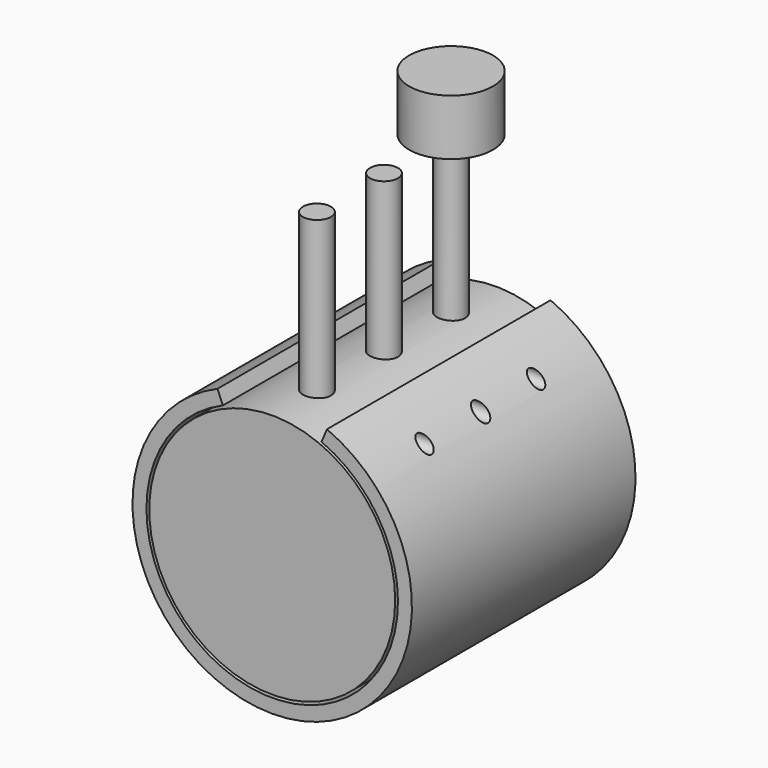
from build123d import *

# Parameters (mm, degrees)
F1_DEPTH = 63.5
F2_R     = 3.351543
F2_R_2   = 3.175
F3_DEPTH = 76.2
F4_R     = 55.88
F5_DEPTH = 63.5
F6_R     = 6.35
F7_DEPTH = 127
F8_R     = 19.05
F9_DEPTH = 25.4


with BuildPart() as f1:
    # F0 (on Front) → F1 (new body, symmetric)
    with BuildSketch(Plane.XZ):
        with BuildLine():
            Line((-22.398134, 52.578), (-24.886816, 58.42))
            ThreePointArc((-24.886816, 58.42), (0, -63.5), (24.886816, 58.42))
            Line((24.886816, 58.42), (22.398134, 52.578))
            ThreePointArc((22.398134, 52.578), (0, -57.15), (-22.398134, 52.578))
        make_face()
    extrude(amount=F1_DEPTH, both=True)

    # F2 (on Right) → F3 (cut, symmetric)
    with BuildSketch(Plane.YZ):
        with Locations((0, 45.72)):
            Circle(F2_R)
        with Locations((-31.75, 45.806605)):
            Circle(F2_R_2)
        with Locations((31.75, 45.927212)):
            Circle(F2_R_2)
    extrude(amount=F3_DEPTH, both=True, mode=Mode.SUBTRACT)


with BuildPart() as f5:
    # F4 (on Front) → F5 (new body, symmetric)
    with BuildSketch(Plane.XZ):
        Circle(F4_R)
    extrude(amount=F5_DEPTH, both=True)

    # F6 (on Top) → F7 (join)
    with BuildSketch(Plane.XY):
        Circle(F6_R)
        with Locations((0, -38.1)):
            Circle(F6_R)
        with Locations((0, 38.1)):
            Circle(F6_R)
    extrude(amount=F7_DEPTH)

    # F8 (on face) → F9 (join)
    with BuildSketch(Plane.XY.offset(127)):
        with Locations((0, 38.1)):
            Circle(F8_R)
    extrude(amount=F9_DEPTH)


solid = Compound([f1.part, f5.part])
